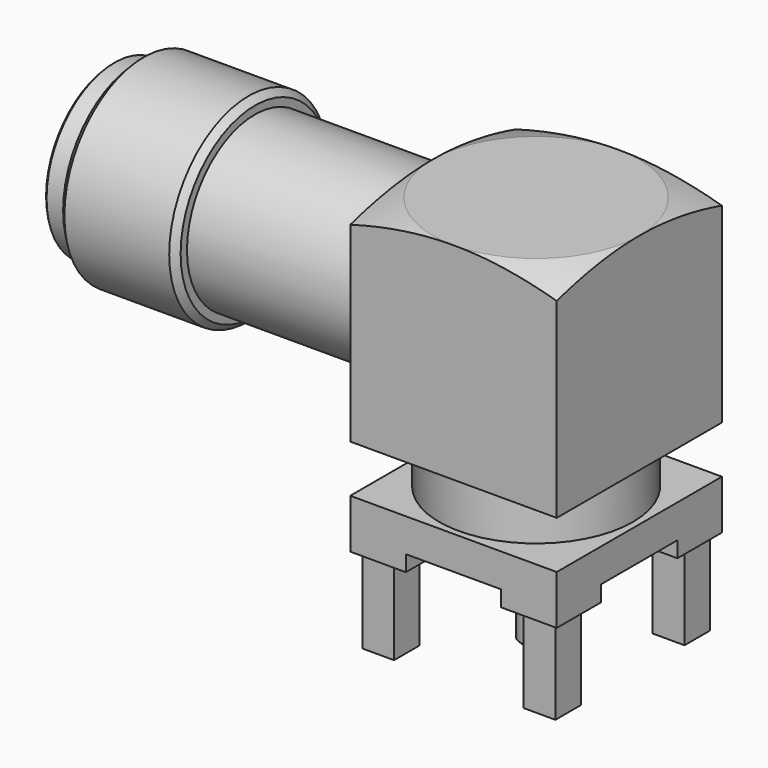
from build123d import *

# Parameters (mm, degrees)
SKETCH_W        = 6.5
SKETCH_H        = 6.5
PAD_DEPTH       = 1.05
SKETCH001_W     = 1.75
SKETCH001_H     = 1.75
PAD001_DEPTH    = 0.5
SKETCH002_W     = 1
SKETCH002_H     = 1
PAD002_DEPTH    = 2.7
SKETCH003_R     = 0.5
PAD003_DEPTH    = 3.2
CHAMFER_SIZE    = 0.08
SKETCH004_R     = 3.05
PAD004_DEPTH    = 1.5
SKETCH005_W     = 6.5
SKETCH005_H     = 6.5
PAD005_DEPTH    = 6.5
SKETCH006_R     = 2.675
PAD006_DEPTH    = 5.6
SKETCH007_R     = 3.125
PAD007_DEPTH    = 3.7
SKETCH008_R     = 2.675
PAD008_DEPTH    = 0.8
CHAMFER001_SIZE = 0.08
CHAMFER002_SIZE = 0.2
SKETCH009_R     = 2.3
POCKET_DEPTH    = 2
SKETCH010_R     = 0.25
POCKET001_DEPTH = 3


with BuildPart() as part:
    # Sketch → Pad (new body)
    with BuildSketch(Plane.XY.offset(0.5)):
        Rectangle(SKETCH_W, SKETCH_H)
    extrude(amount=PAD_DEPTH)

    # Sketch001 (on Face5 of Pad) → Pad001 (join)
    with BuildSketch(Plane(origin=(0, 0, 0.5), x_dir=(1, 0, 0), z_dir=(0, 0, -1))):
        with Locations((-2.375, 2.375)):
            Rectangle(SKETCH001_W, SKETCH001_H)
        with Locations((-2.375, -2.375)):
            Rectangle(SKETCH001_W, SKETCH001_H)
        with Locations((2.375, -2.375)):
            Rectangle(SKETCH001_W, SKETCH001_H)
        with Locations((2.375, 2.375)):
            Rectangle(SKETCH001_W, SKETCH001_H)
    extrude(amount=PAD001_DEPTH)

    # Sketch002 (on Face26 of Pad001) → Pad002 (join)
    with BuildSketch(Plane(origin=(0, 0, 0), x_dir=(1, 0, 0), z_dir=(0, 0, -1))):
        with Locations((-2.54, 2.54)):
            Rectangle(SKETCH002_W, SKETCH002_H)
        with Locations((2.54, 2.54)):
            Rectangle(SKETCH002_W, SKETCH002_H)
        with Locations((2.54, -2.54)):
            Rectangle(SKETCH002_W, SKETCH002_H)
        with Locations((-2.54, -2.54)):
            Rectangle(SKETCH002_W, SKETCH002_H)
    extrude(amount=PAD002_DEPTH)

    # Sketch003 (on Face5 of Pad002) → Pad003 (join)
    with BuildSketch(Plane(origin=(0, 0, 0.5), x_dir=(1, 0, 0), z_dir=(0, 0, -1))):
        Circle(SKETCH003_R)
    extrude(amount=PAD003_DEPTH)

    # Chamfer
    chamfer_edges = [part.edges().sort_by_distance(p)[0] for p in [
        (-0.5, 0, -2.7),
    ]]
    chamfer(chamfer_edges, length=CHAMFER_SIZE)

    # Sketch004 (on Face20 of Chamfer) → Pad004 (join)
    with BuildSketch(Plane.XY.offset(1.55)):
        Circle(SKETCH004_R)
    extrude(amount=PAD004_DEPTH)

    # Sketch005 (on Face48 of Pad004) → Pad005 (join)
    with BuildSketch(Plane.XY.offset(3.05)):
        Rectangle(SKETCH005_W, SKETCH005_H)
    extrude(amount=PAD005_DEPTH)

    # Sketch006 (on Face2 of Pad005) → Pad006 (join)
    with BuildSketch(Plane(origin=(-3.25, 0, 0), x_dir=(0, -1, 0), z_dir=(-1, 0, 0))):
        with Locations((0, 6.3)):
            Circle(SKETCH006_R)
    extrude(amount=PAD006_DEPTH)

    # Sketch007 (on Face9 of Pad006) → Pad007 (join)
    with BuildSketch(Plane(origin=(-8.85, 0, 0), x_dir=(0, -1, 0), z_dir=(-1, 0, 0))):
        with Locations((0, 6.3)):
            Circle(SKETCH007_R)
    extrude(amount=PAD007_DEPTH)

    # Sketch008 (on Face3 of Pad007) → Pad008 (join)
    with BuildSketch(Plane(origin=(-12.55, 0, 0), x_dir=(0, -1, 0), z_dir=(-1, 0, 0))):
        with Locations((0, 6.3)):
            Circle(SKETCH008_R)
    extrude(amount=PAD008_DEPTH)

    # Chamfer001
    chamfer001_edges = [part.edges().sort_by_distance(p)[0] for p in [
        (-13.35, 2.675, 6.3),
    ]]
    chamfer(chamfer001_edges, length=CHAMFER001_SIZE)

    # Chamfer002
    chamfer002_edges = [part.edges().sort_by_distance(p)[0] for p in [
        (-8.85, 3.125, 6.3),
        (-12.55, 3.125, 6.3),
    ]]
    chamfer(chamfer002_edges, length=CHAMFER002_SIZE)

    # Sketch009 (on Face7 of Chamfer002) → Pocket (cut)
    with BuildSketch(Plane(origin=(-13.35, 0, 0), x_dir=(0, -1, 0), z_dir=(-1, 0, 0))):
        with Locations((0, 6.3)):
            Circle(SKETCH009_R)
    extrude(amount=-POCKET_DEPTH, mode=Mode.SUBTRACT)

    # Sketch010 (on Face11 of Pocket) → Pocket001 (cut)
    with BuildSketch(Plane(origin=(-11.35, 0, 0), x_dir=(0, -1, 0), z_dir=(-1, 0, 0))):
        with Locations((0, 6.3)):
            Circle(SKETCH010_R)
    extrude(amount=-POCKET001_DEPTH, mode=Mode.SUBTRACT)

    # Sketch011 → Groove (revolve, cut)
    with BuildSketch(Plane.XZ):
        with BuildLine():
            ThreePointArc((0, 10.289421), (-2.380676, 9.806619), (-4.681284, 9.026929))
            Line((-4.681284, 9.026929), (-4.681284, 13.840189))
            Line((-4.681284, 13.840189), (0, 13.840189))
            Line((0, 13.840189), (0, 10.289421))
        make_face()
    revolve(axis=Axis((0, 0, 0), (0, 0, 1)), mode=Mode.SUBTRACT)


solid = part.part
